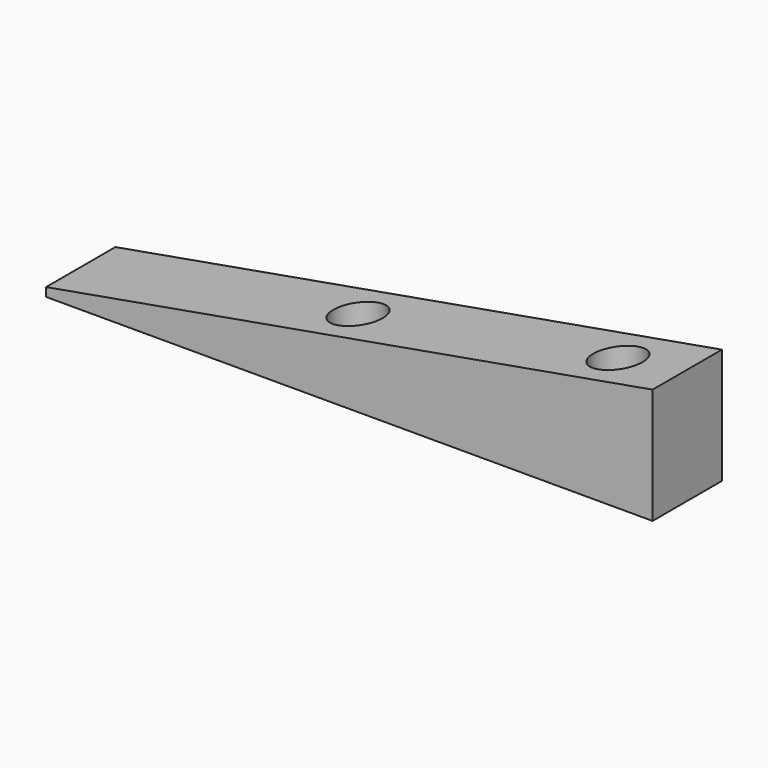
from build123d import *

# Parameters (mm, degrees)
PAD_DEPTH     = 10
SKETCH002_R   = 2.85
POCKET_DEPTH  = 30
SKETCH003_R   = 3.5
SKETCH003_R_2 = 1.643
PAD001_DEPTH  = 2


with BuildPart() as part:
    # Sketch → Pad (new body)
    with BuildSketch(Plane.XZ):
        Polygon((0, 0), (0, 1), (70, 13.342889), (70, 0), align=None)
    extrude(amount=PAD_DEPTH)

    # Sketch002 (on Face4 of Pad) → Pocket (cut)
    with BuildSketch(Plane(origin=(0, 0, 0), x_dir=(1, 0, 0), z_dir=(0, 0, -1))):
        with Locations((32, 5)):
            Circle(SKETCH002_R)
        with Locations((62, 5)):
            Circle(SKETCH002_R)
    extrude(amount=-POCKET_DEPTH, mode=Mode.SUBTRACT)

    # Sketch003 (on Face2 of Pocket) → Pad001 (join)
    with BuildSketch(Plane(origin=(0, 0, 0), x_dir=(1, 0, 0), z_dir=(0, 0, -1))):
        with Locations((32, 5)):
            Circle(SKETCH003_R)
        with Locations((32, 5)):
            Circle(SKETCH003_R_2, mode=Mode.SUBTRACT)
        with Locations((62, 5)):
            Circle(SKETCH003_R)
        with Locations((62, 5)):
            Circle(SKETCH003_R_2, mode=Mode.SUBTRACT)
    extrude(amount=-PAD001_DEPTH)


solid = part.part
